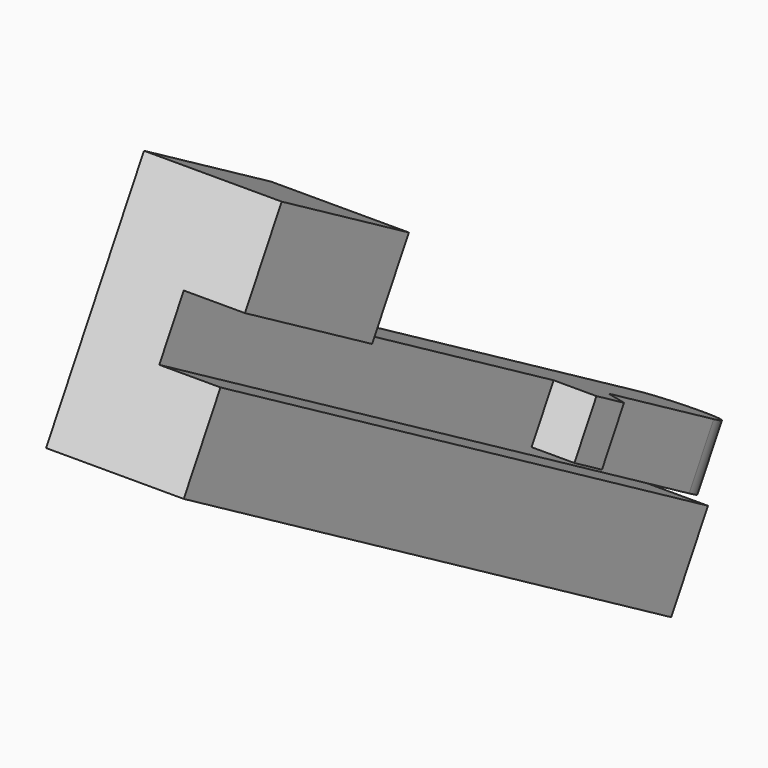
from build123d import *

# Parameters (mm, degrees)
PAD022_DEPTH            = 2
BOX028_W                = 10
BOX028_H                = 4.5
BOX028_DEPTH            = 3
PAD023_DEPTH            = 13
PAD024_DEPTH            = 1.8
BOX029_W                = 6
BOX029_H                = 4.5
BOX029_DEPTH            = 3
BODY012_ROLL_ANGLE      = -0.000328
BODY012_PITCH_ANGLE     = 30.004371
BODY012_PLACEMENT_ANGLE = 89.998778


with BuildPart() as body012:
    # Sketch042 → Pad022 (new body)
    with BuildSketch(Plane(origin=(0, -0.1, 0.2), x_dir=(1, 0, 0), z_dir=(0, 0, 1))):
        with BuildLine():
            Line((24, -2.5), (-1, -2.5))
            Line((-1, -2.5), (-1, 0))
            Line((24, 0), (-1, 0))
            ThreePointArc((24, -2.5), (25.25, -1.25), (24, 0))
        make_face()
    extrude(amount=-PAD022_DEPTH)

    # Box028 → Box028 (join)
    with BuildSketch(Plane(origin=(-1, 1.9, -1.8), x_dir=(1, 0, 0), z_dir=(0, 0, -1))):
        with Locations((5, 2.25)):
            Rectangle(BOX028_W, BOX028_H)
    extrude(amount=BOX028_DEPTH)

    # Sketch043 (on Plane of DatumPlane011) → Pad023 (join)
    with BuildSketch(Plane(origin=(9, -2.6, -4.8), x_dir=(0, 0, 1), z_dir=(1, 0, 0))):
        Polygon((0, 0), (0, -4.5), (3, -4.5), (3, -1.1), (2.75, -1.1), (2.75, 0), align=None)
    extrude(amount=PAD023_DEPTH)

    # Sketch044 (on Plane of DatumPlane002) → Pad024 (join)
    with BuildSketch(Plane.XY.offset(0.2)):
        Polygon((16.45, -0.1), (16.45, 1.3), (17.75, 1.3), (19.05, -0.1), align=None)
    extrude(amount=-PAD024_DEPTH)

    # Box029 → Box029 (join)
    with BuildSketch(Plane(origin=(-1, -2.6, 0.2), x_dir=(1, 0, 0), z_dir=(0, 0, 1))):
        with Locations((3, 2.25)):
            Rectangle(BOX029_W, BOX029_H)
    extrude(amount=BOX029_DEPTH)


with BuildPart() as body012_1:
    # Body012 roll: moved
    add(body012.part.rotate(Axis((0, 0, 0), (1, 0, 0)), BODY012_ROLL_ANGLE))


with BuildPart() as body012_2:
    # Body012 pitch: moved
    add(body012_1.part.rotate(Axis((0, 0, 0), (0, 1, 0)), BODY012_PITCH_ANGLE))


with BuildPart() as body012_3:
    # Body012 placement: moved
    add(body012_2.part.moved(Location((-34.500058, -84.760808, -62.025399))).rotate(Axis((-34.500058, -84.760808, -62.025399), (0, 0, 1)), BODY012_PLACEMENT_ANGLE))


with BuildPart() as body_mirrored:
    # mirror: instance of Body012
    add(body012_3.part.mirror(Plane(origin=(-11, 23.3, 0), x_dir=(0, 1, 0), z_dir=(-1, 0, 0))))


with BuildPart() as body_mirrored_1:
    # mirror placement: moved
    add(body_mirrored.part.moved(Location((-69, 0, 0))))


solid = body_mirrored_1.part
